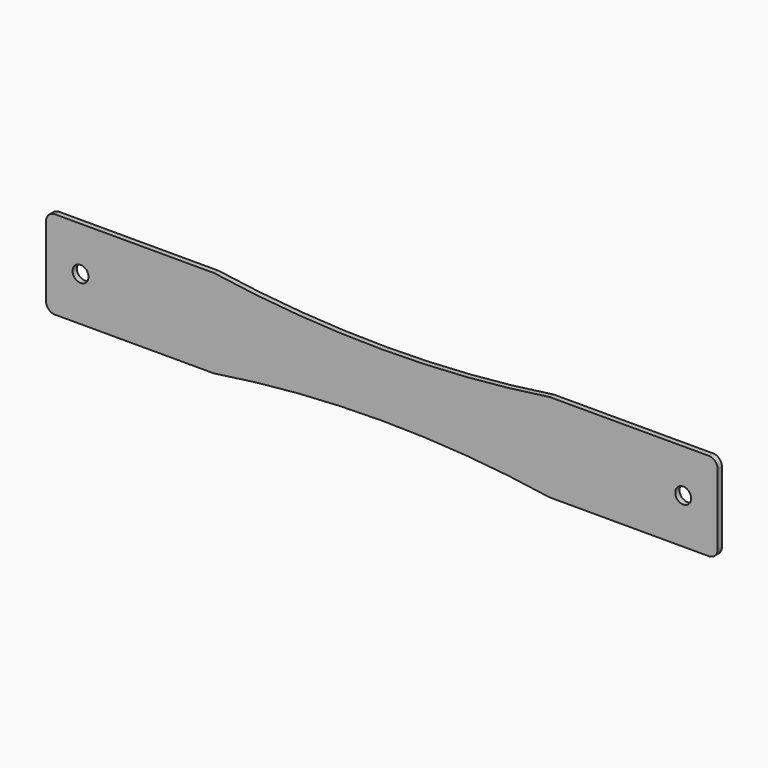
from build123d import *

# Parameters (mm, degrees)
F0_R     = 4.5
F1_DEPTH = 3


with BuildPart() as f1:
    # F0 (on Front) → F1 (new body)
    with BuildSketch(Plane.XZ):
        with BuildLine():
            Line((-108.385132, -19.699937), (-198.385132, -19.699937))
            ThreePointArc((-198.385132, -19.699937), (-201.920666, -21.164403), (-203.385132, -24.699937))
            Line((-203.385132, -24.699937), (-203.385132, -64.699937))
            ThreePointArc((-203.385132, -64.699937), (-201.920666, -68.235471), (-198.385132, -69.699937))
            Line((-198.385132, -69.699937), (-108.385132, -69.699937))
            ThreePointArc((-108.385132, -69.699937), (-13.385132, -62.340875), (81.614868, -69.699937))
            Line((81.614868, -69.699937), (171.614868, -69.699937))
            ThreePointArc((171.614868, -69.699937), (175.150402, -68.235471), (176.614868, -64.699937))
            Line((176.614868, -64.699937), (176.614868, -24.699937))
            ThreePointArc((176.614868, -24.699937), (175.150402, -21.164403), (171.614868, -19.699937))
            Line((171.614868, -19.699937), (81.614868, -19.699937))
            ThreePointArc((81.614868, -19.699937), (-13.385132, -26.811305), (-108.385132, -19.699937))
        make_face()
        with Locations((-183.885132, -44.699937)):
            Circle(F0_R, mode=Mode.SUBTRACT)
        with Locations((157.114868, -44.199937)):
            Circle(F0_R, mode=Mode.SUBTRACT)
    extrude(amount=F1_DEPTH)


solid = f1.part
